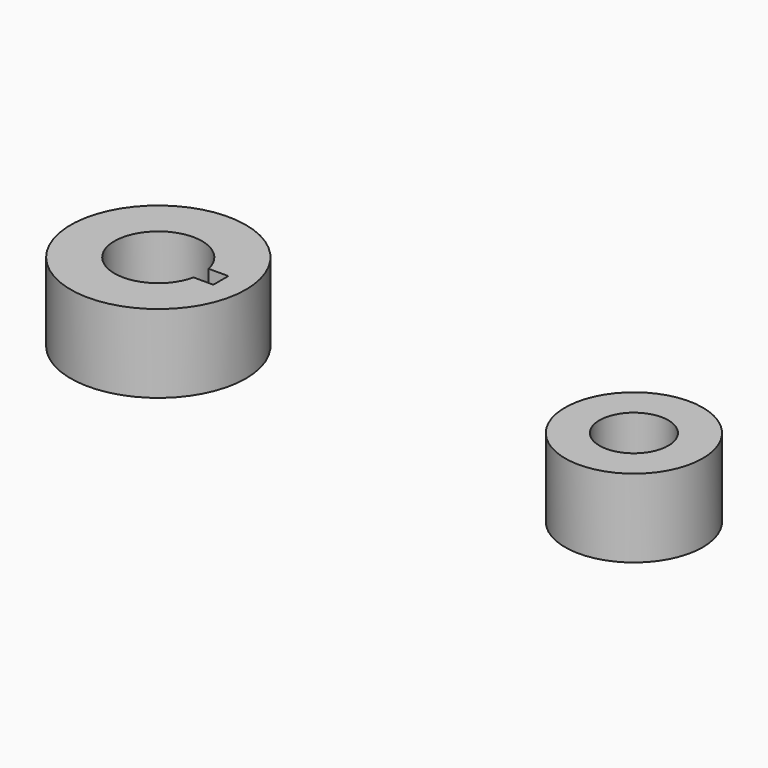
from build123d import *

# Parameters (mm, degrees)
F0_R     = 14
F0_R_2   = 11
F0_R_3   = 5.5
F1_DEPTH = 12.5


with BuildPart() as f1:
    # F0 (on Top) → F1 (new body)
    with BuildSketch(Plane.XY):
        with Locations((-53.184032, 0)):
            Circle(F0_R)
        with BuildLine():
            ThreePointArc((-46.346635, -1.5), (-60.184032, 0), (-46.346635, 1.5))
            Line((-46.346635, 1.5), (-43.184032, 1.5))
            Line((-43.184032, 1.5), (-43.184032, -1.5))
            Line((-43.184032, -1.5), (-46.346635, -1.5))
        make_face(mode=Mode.SUBTRACT)
        with Locations((22.815968, 0)):
            Circle(F0_R_2)
        with Locations((22.815968, 0)):
            Circle(F0_R_3, mode=Mode.SUBTRACT)
    extrude(amount=F1_DEPTH)


solid = f1.part
